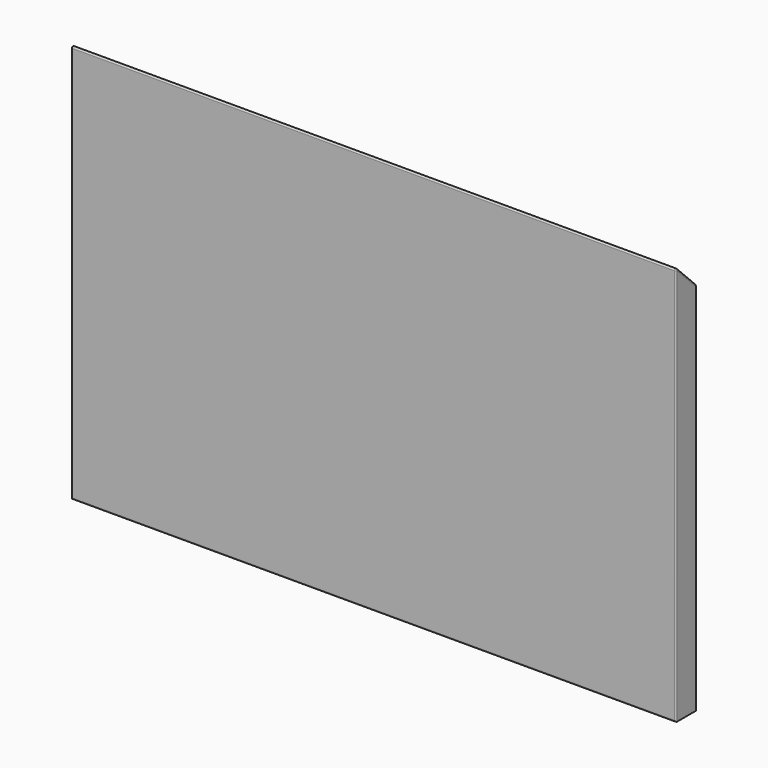
from build123d import *

# Parameters (mm, degrees)
F0_W     = 430
F0_H     = 285
F1_DEPTH = 18
F3_DEPTH = 438
F4_R     = 1
F5_R     = 1


with BuildPart() as f1:
    # F0 (on Front) → F1 (new body)
    with BuildSketch(Plane.XZ):
        Rectangle(F0_W, F0_H)
    extrude(amount=F1_DEPTH)

    # F2 (on face) → F3 (cut)
    with BuildSketch(Plane.YZ.offset(215)):
        Polygon((0, 142.5), (-18, 142.5), (0, 124.5), align=None)
    extrude(amount=-F3_DEPTH, mode=Mode.SUBTRACT)

    # F4
    f4_edges = [f1.edges().sort_by_distance(p)[0] for p in [
        (0, -18, 142.5),
    ]]
    fillet(f4_edges, radius=F4_R)

    # F5
    f5_edges = [f1.edges().sort_by_distance(p)[0] for p in [
        (-215, -18, -1.207107),
        (0, -18, -142.5),
        (215, -18, -1.207107),
    ]]
    fillet(f5_edges, radius=F5_R)


solid = f1.part
